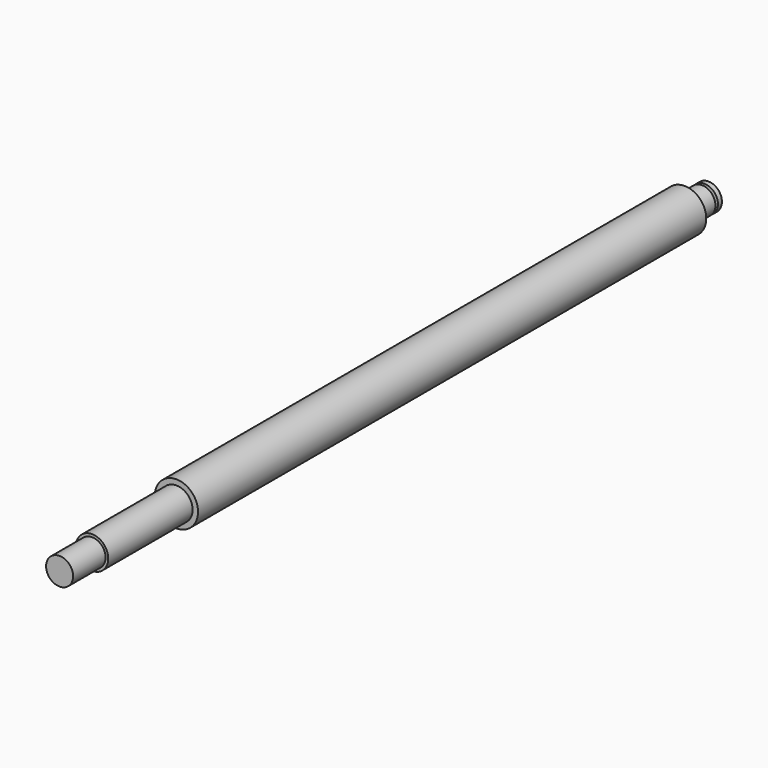
from build123d import *

# Parameters (mm, degrees)
F0_R     = 8
F1_DEPTH = 300


with BuildPart() as f1:
    # F0 (on Front) → F1 (new body)
    with BuildSketch(Plane.XZ):
        Circle(F0_R)
    extrude(amount=F1_DEPTH)

    # F2 (on Right) → F4 (revolve, cut)
    with BuildSketch(Plane.YZ):
        Polygon((-246, 20), (-300, 20), (-300, 5), (-285, 5), (-285, 6), (-246, 6), align=None)
        Polygon((0, 5), (0, 10), (-11, 10), (-11, 5), (-3, 5), (-3, 3.8), (-1.85, 3.8), (-1.85, 5), align=None)
    revolve(axis=Axis((0, -200, 0), (0, -1, 0)), mode=Mode.SUBTRACT)


solid = f1.part
